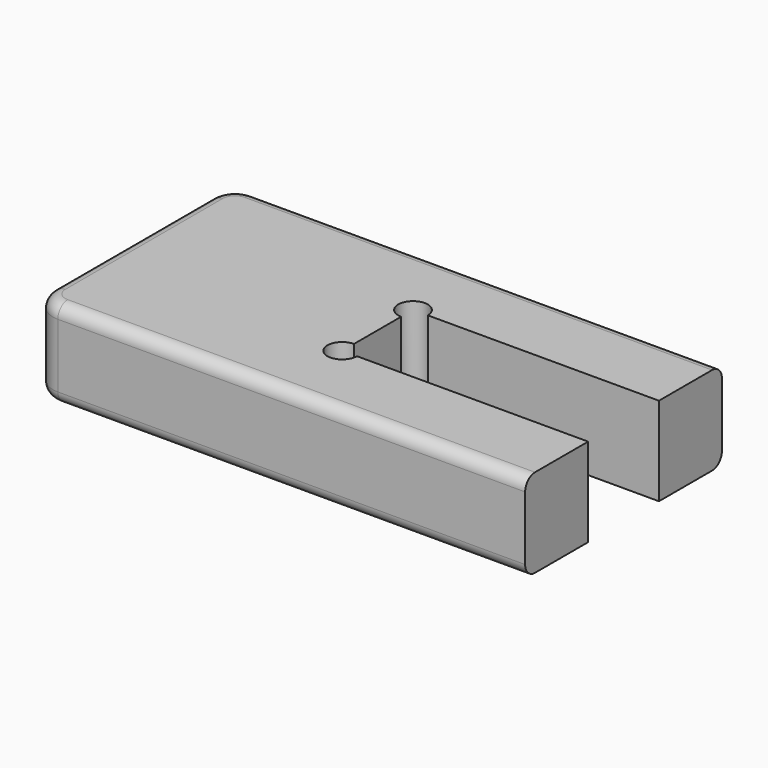
from build123d import *

# Parameters (mm, degrees)
F1_DEPTH = 18
F2_R     = 5
F3_R     = 2.5


with BuildPart() as f1:
    # F0 (on Top) → F1 (new body)
    with BuildSketch(Plane.XY):
        with BuildLine():
            Line((0, 50), (0, 0))
            Line((0, 0), (100, 0))
            Line((100, 0), (100, 16))
            Line((100, 16), (53, 16))
            ThreePointArc((53, 16), (47.87868, 13.87868), (50, 19))
            Line((50, 19), (50, 31))
            ThreePointArc((50, 31), (47.87868, 36.12132), (53, 34))
            Line((53, 34), (100, 34))
            Line((100, 34), (100, 50))
            Line((100, 50), (0, 50))
        make_face()
    extrude(amount=F1_DEPTH)

    # F2
    f2_edges = [f1.edges().sort_by_distance(p)[0] for p in [
        (0, 0, 9),
        (0, 50, 9),
    ]]
    fillet(f2_edges, radius=F2_R)

    # F3
    f3_edges = [f1.edges().sort_by_distance(p)[0] for p in [
        (52.5, 0, 18),
        (52.5, 0, 0),
    ]]
    fillet(f3_edges, radius=F3_R)


solid = f1.part
